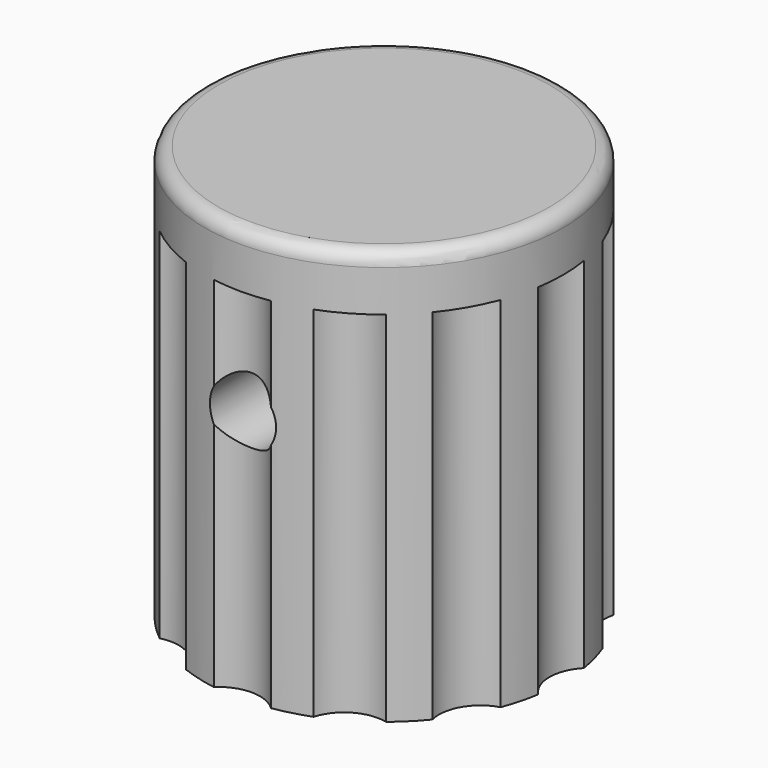
from build123d import *

# Parameters (mm, degrees)
F2_R     = 3.05
F3_DEPTH = 13
F4_R     = 0.5
F5_R     = 1.2
F6_DEPTH = 7
F7_R     = 1.5
F8_DEPTH = 13


with BuildPart() as f1:
    # F0 (on Front) → F1 (revolve)
    with BuildSketch(Plane.XZ):
        Polygon((-5, 0), (0, 0), (0, 15), (-6.5, 15), (-6.5, 0), align=None)
    revolve(axis=Axis((0, 0, -3.667768), (0, 0, -1)))

    # F2 (on face) → F3 (cut)
    with BuildSketch(Plane(origin=(0, 0, 0), x_dir=(1, 0, 0), z_dir=(0, 0, -1))):
        Circle(F2_R)
    extrude(amount=-F3_DEPTH, mode=Mode.SUBTRACT)

    # F4
    f4_edges = [f1.edges().sort_by_distance(p)[0] for p in [
        (6.5, 0, 15),
    ]]
    fillet(f4_edges, radius=F4_R)

    # F5 (on Front) → F6 (cut)
    with BuildSketch(Plane.XZ):
        with Locations((0, 9)):
            Circle(F5_R)
    extrude(amount=F6_DEPTH, mode=Mode.SUBTRACT)

    # F7 (on face) → F8 (cut)
    with BuildSketch(Plane(origin=(0, 0, 0), x_dir=(1, 0, 0), z_dir=(0, 0, -1))):
        with Locations((-7.5, 0)):
            Circle(F7_R)
        with Locations((-6.495191, -3.75)):
            Circle(F7_R)
        with Locations((-3.75, -6.495191)):
            Circle(F7_R)
        with Locations((0, -7.5)):
            Circle(F7_R)
        with Locations((3.75, -6.495191)):
            Circle(F7_R)
        with Locations((6.495191, -3.75)):
            Circle(F7_R)
        with Locations((7.5, 0)):
            Circle(F7_R)
        with Locations((6.495191, 3.75)):
            Circle(F7_R)
        with Locations((3.75, 6.495191)):
            Circle(F7_R)
        with Locations((0, 7.5)):
            Circle(F7_R)
        with Locations((-3.75, 6.495191)):
            Circle(F7_R)
        with Locations((-6.495191, 3.75)):
            Circle(F7_R)
    extrude(amount=-F8_DEPTH, mode=Mode.SUBTRACT)


solid = f1.part
